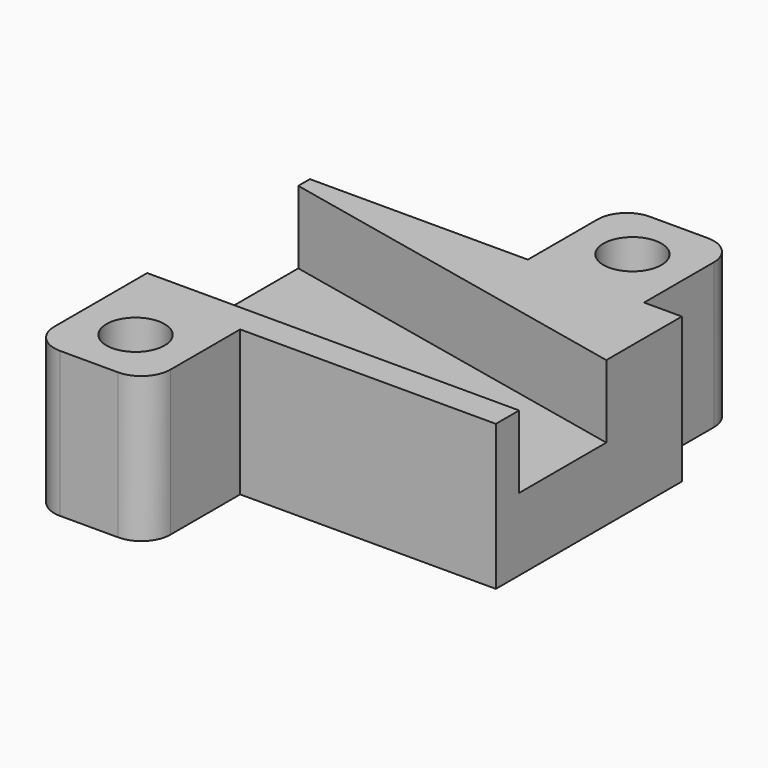
from build123d import *

# Parameters (mm, degrees)
CYLINDER004_R     = 2
CYLINDER004_DEPTH = 10
BOX003_W          = 8
BOX003_H          = 8
BOX003_DEPTH      = 10
FILLET_R          = 2
CYLINDER005_R     = 2
CYLINDER005_DEPTH = 10
BOX004_W          = 8
BOX004_H          = 8
BOX004_DEPTH      = 10
FILLET001_R       = 2
PAD001_DEPTH      = 5
BOX001_W          = 25.6
BOX001_H          = 16
BOX001_DEPTH      = 10


with BuildPart() as cylinder004:
    # Cylinder004 → Cylinder004 (new body)
    with BuildSketch(Plane(origin=(4, 4, 0), x_dir=(1, 0, 0), z_dir=(0, 0, 1))):
        Circle(CYLINDER004_R)
    extrude(amount=CYLINDER004_DEPTH)


with BuildPart() as fillet_body:
    # Box003 → Box003 (new body)
    with BuildSketch(Plane.XY):
        with Locations((4, 4)):
            Rectangle(BOX003_W, BOX003_H)
    extrude(amount=BOX003_DEPTH)

    # Cut004: cut Cylinder004
    add(cylinder004.part, mode=Mode.SUBTRACT)


with BuildPart() as fillet_body_1:
    # Cut004 placement: moved
    add(fillet_body.part.moved(Location((30, -10, 0))))

    # Fillet
    fillet_edges = [fillet_body_1.edges().sort_by_distance(p)[0] for p in [
        (30, -10, 5),
        (38, -10, 5),
    ]]
    fillet(fillet_edges, radius=FILLET_R)


with BuildPart() as cylinder005:
    # Cylinder005 → Cylinder005 (new body)
    with BuildSketch(Plane(origin=(4, 4, 0), x_dir=(1, 0, 0), z_dir=(0, 0, 1))):
        Circle(CYLINDER005_R)
    extrude(amount=CYLINDER005_DEPTH)


with BuildPart() as fillet001:
    # Box004 → Box004 (new body)
    with BuildSketch(Plane.XY):
        with Locations((4, 4)):
            Rectangle(BOX004_W, BOX004_H)
    extrude(amount=BOX004_DEPTH)

    # Cut005: cut Cylinder005
    add(cylinder005.part, mode=Mode.SUBTRACT)


with BuildPart() as fillet001_1:
    # Cut005 placement: moved
    add(fillet001.part.moved(Location((45, 14, 0))))

    # Fillet001
    fillet001_edges = [fillet001_1.edges().sort_by_distance(p)[0] for p in [
        (45, 22, 5),
        (53, 22, 5),
    ]]
    fillet(fillet001_edges, radius=FILLET001_R)


with BuildPart() as obj1:
    # Sketch001 → Pad001 (new body)
    with BuildSketch(Plane(origin=(0, 0, 0), x_dir=(-1, 0, 0), z_dir=(0, 0, 1))):
        Polygon((-30, 0), (-30, -13), (-55.6, -7.5), (-55.6, 0), align=None)
    extrude(amount=PAD001_DEPTH)


with BuildPart() as obj1_1:
    # Body001 placement: moved
    add(obj1.part.moved(Location((0, 0, 5))))


with BuildPart() as f_200mm:
    # Box001 → Box001 (new body)
    with BuildSketch(Plane(origin=(30, -2, 0), x_dir=(1, 0, 0), z_dir=(0, 0, 1))):
        with Locations((12.8, 8)):
            Rectangle(BOX001_W, BOX001_H)
    extrude(amount=BOX001_DEPTH)

    # Cut001: cut obj1
    add(obj1_1.part, mode=Mode.SUBTRACT)

    # Fusion: union Fillet body, Fillet001
    add(fillet_body_1.part)
    add(fillet001_1.part)


solid = f_200mm.part
